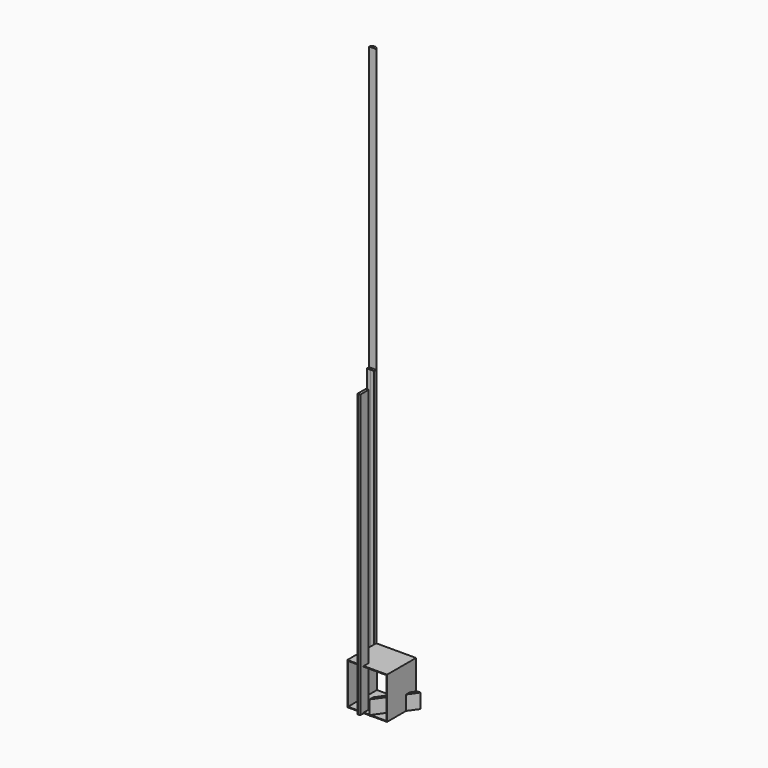
from build123d import *

# Parameters (mm, degrees)
F0_W      = 278.923513
F0_H      = 292.1
F0_W_2    = 269.398513
F0_H_2    = 282.575
F1_DEPTH  = 254
F2_W      = 25.4
F2_H      = 19.05
F3_DEPTH  = 1981.2
F4_DEPTH  = 1981.2
F6_DEPTH  = 1981.2
F8_DEPTH  = 101.6
F10_DEPTH = 1981.2


with BuildPart() as f1:
    # F0 (on Front) → F1 (new body)
    with BuildSketch(Plane.XZ):
        with Locations((139.461757, 146.05)):
            Rectangle(F0_W, F0_H)
        with Locations((139.461756, 146.05)):
            Rectangle(F0_W_2, F0_H_2, mode=Mode.SUBTRACT)
    extrude(amount=F1_DEPTH)


with BuildPart() as f3:
    # F2 (on Top) → F3 (new body)
    with BuildSketch(Plane.XY):
        Polygon((-25.4, 0), (0, 0), (0, 3.175), (-15.875, 19.05), (-34.925, 19.05), (-50.8, 3.175), (-50.8, 0), align=None)
        with Locations((-38.1, -9.525)):
            Rectangle(F2_W, F2_H)
    extrude(amount=F3_DEPTH)


with BuildPart() as f4:
    # F2 (on Top) → F4 (new body)
    with BuildSketch(Plane.XY):
        Polygon((-25.4, 0), (0, 0), (0, 3.175), (-15.875, 19.05), (-34.925, 19.05), (-50.8, 3.175), (-50.8, 0), align=None)
        with Locations((-12.7, -9.525)):
            Rectangle(F2_W, F2_H)
    extrude(amount=F4_DEPTH)


with BuildPart() as f6:
    # F5 (on Top) → F6 (new body)
    with BuildSketch(Plane.XY):
        with BuildLine():
            ThreePointArc((96.189181, -281.912499), (97.119117, -284.157563), (99.364181, -285.087499))
            Line((99.364181, -285.087499), (112.064181, -285.087499))
            ThreePointArc((112.064181, -285.087499), (114.309245, -284.157563), (115.239181, -281.912499))
            Line((115.239181, -281.912499), (115.239181, -212.062499))
            ThreePointArc((115.239181, -212.062499), (114.309245, -209.817435), (112.064181, -208.887499))
            Line((112.064181, -208.887499), (99.364181, -208.887499))
            ThreePointArc((99.364181, -208.887499), (97.119117, -209.817435), (96.189181, -212.062499))
            Line((96.189181, -212.062499), (96.189181, -281.912499))
        make_face()
    extrude(amount=F6_DEPTH)


with BuildPart() as f8:
    # F7 (on Top) → F8 (new body)
    with BuildSketch(Plane.XY):
        Polygon((303.769244, -19.05), (158.75, -226.158944), (158.75, -259.371606), (327.025, -19.05), align=None)
    extrude(amount=F8_DEPTH)


with BuildPart() as f10:
    # F9 (on face) → F10 (new body)
    with BuildSketch(Plane.XY.offset(1981.2)):
        Polygon((0, 0), (0, 3.175), (-15.875, 19.05), (-34.925, 19.05), (-50.8, 3.175), (-50.8, 0), (-25.4, 0), align=None)
    extrude(amount=F10_DEPTH)


solid = Compound([f1.part, f3.part, f4.part, f6.part, f8.part, f10.part])
